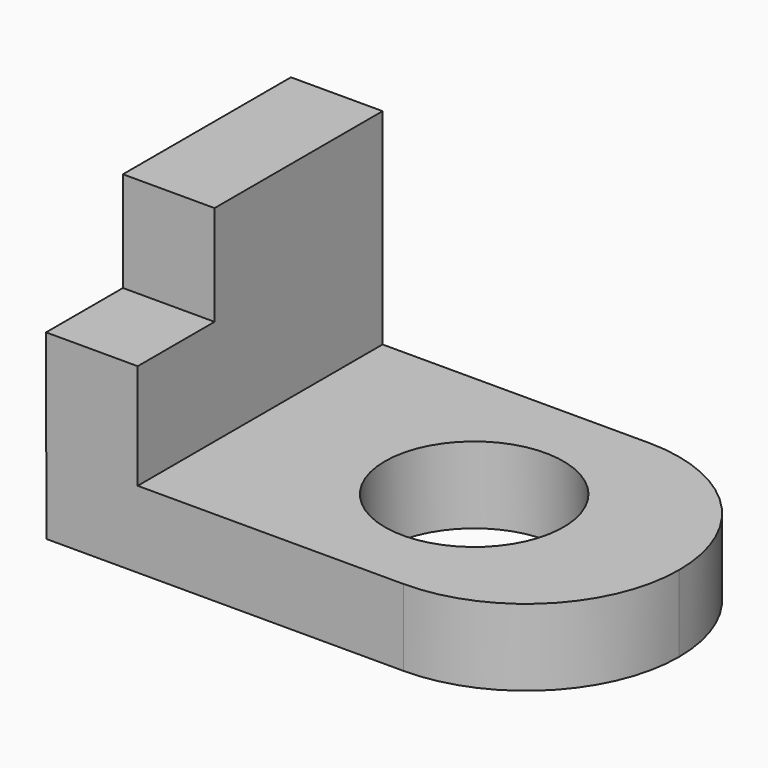
from build123d import *

# Parameters (mm, degrees)
F1_DEPTH = 19.05
F2_W     = 22.8103399277
F2_H     = 51.1389188468
F3_DEPTH = 38.1
F4_W     = 23.9186170459
F4_H     = 24.924851954
F5_DEPTH = 25.4
F7_D     = 44.45


with BuildPart() as f1:
    # F0 (on Top) → F1 (new body)
    with BuildSketch(Plane.XY):
        with BuildLine():
            Line((25.4, 38.1), (-63.5, 38.1))
            Line((-63.5, 38.1), (-63.5, -38.1))
            Line((-63.5, -38.1), (25.4, -38.1))
            ThreePointArc((25.4, -38.1), (52.3407683632, -26.9407683632), (63.5, 0))
            ThreePointArc((63.5, 0), (52.3407683632, 26.9407683632), (25.4, 38.1))
        make_face()
    extrude(amount=-F1_DEPTH)

    # F2 (on Front) → F3 (join, symmetric)
    with BuildSketch(Plane.XZ):
        with Locations((-52.2303506732, 25.5694594234)):
            Rectangle(F2_W, F2_H)
    extrude(amount=F3_DEPTH, both=True)

    # F4 (on face) → F5 (cut)
    with BuildSketch(Plane(origin=(-63.635520637, 0, 0), x_dir=(0, -1, 0), z_dir=(-1, 0, 0))):
        with Locations((26.1406914771, 38.6764928699)):
            Rectangle(F4_W, F4_H)
    extrude(amount=-F5_DEPTH, mode=Mode.SUBTRACT)

    # F7 (through all)
    with Locations(Plane.XY):
        with Locations((12.4624269083, 0)):
            Hole(F7_D / 2)


solid = f1.part
